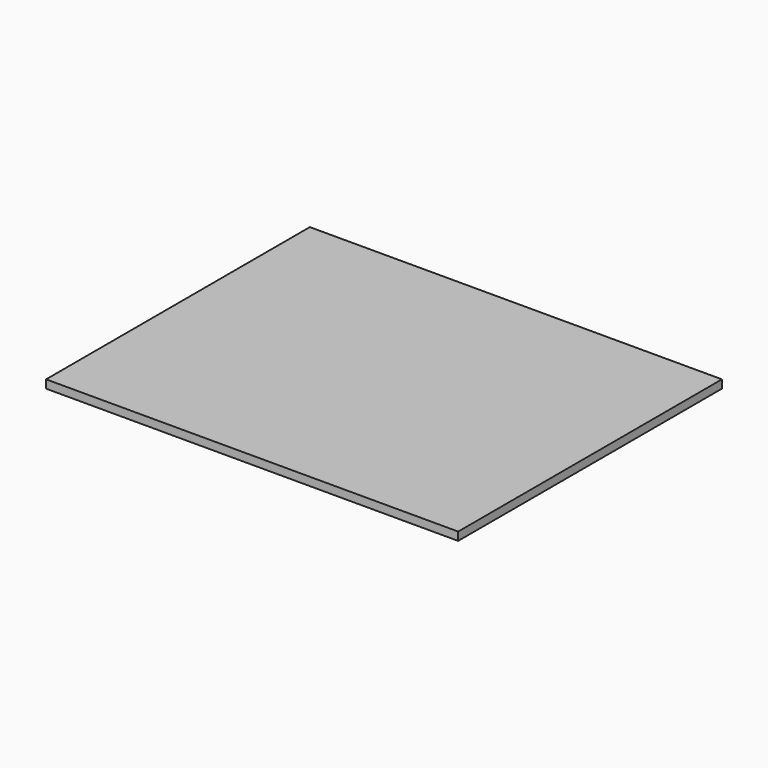
from build123d import *

# Parameters (mm, degrees)
SKETCH_W  = 50
SKETCH_H  = 40
PAD_DEPTH = 1


with BuildPart() as part:
    # Sketch → Pad (new body)
    with BuildSketch(Plane.XY):
        with Locations((25, 20)):
            Rectangle(SKETCH_W, SKETCH_H)
    extrude(amount=PAD_DEPTH)


solid = part.part
